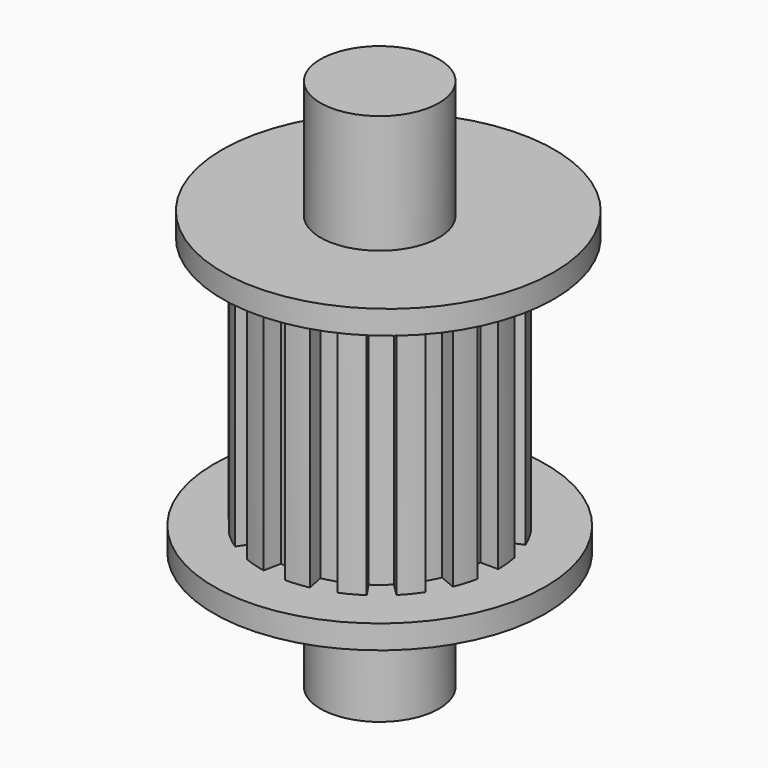
from build123d import *

# Parameters (mm, degrees)
F0_R          = 7
F1_DEPTH      = 1
F3_DEPTH      = 10.5
F4_R          = 7
F5_DEPTH      = 1
F6_R          = 2.5
F7_DEPTH      = 5
F7_DEPTH_BACK = 17.5


with BuildPart() as f1:
    # F0 (on Top) → F1 (new body)
    with BuildSketch(Plane.XY):
        Circle(F0_R)
    extrude(amount=F1_DEPTH)

    # F2 (on face) → F3 (join)
    with BuildSketch(Plane.XY.offset(1)):
        with BuildLine():
            ThreePointArc((0.829134, 4.168337), (0.416573, 4.229535), (0, 4.25))
            Line((0, 4.25), (0, 5))
            ThreePointArc((0, 5), (-0.490086, 4.975924), (-0.975452, 4.903926))
            Line((-0.975452, 4.903926), (-0.829134, 4.168337))
            ThreePointArc((-0.829134, 4.168337), (-1.23371, 4.066996), (-1.626405, 3.926488))
            Line((-1.626405, 3.926488), (-1.913417, 4.619398))
            ThreePointArc((-1.913417, 4.619398), (-2.356984, 4.409606), (-2.777851, 4.157348))
            Line((-2.777851, 4.157348), (-2.361173, 3.533746))
            ThreePointArc((-2.361173, 3.533746), (-2.696171, 3.285294), (-3.005204, 3.005204))
            Line((-3.005204, 3.005204), (-3.535534, 3.535534))
            ThreePointArc((-3.535534, 3.535534), (-3.865052, 3.171966), (-4.157348, 2.777851))
            Line((-4.157348, 2.777851), (-3.533746, 2.361173))
            ThreePointArc((-3.533746, 2.361173), (-3.748165, 2.003436), (-3.926488, 1.626405))
            Line((-3.926488, 1.626405), (-4.619398, 1.913417))
            ThreePointArc((-4.619398, 1.913417), (-4.784702, 1.451423), (-4.903926, 0.975452))
            Line((-4.903926, 0.975452), (-4.168337, 0.829134))
            ThreePointArc((-4.168337, 0.829134), (-4.229535, 0.416573), (-4.25, 0))
            Line((-4.25, 0), (-5, 0))
            ThreePointArc((-5, 0), (-4.975924, -0.490086), (-4.903926, -0.975452))
            Line((-4.903926, -0.975452), (-4.168337, -0.829134))
            ThreePointArc((-4.168337, -0.829134), (-4.066996, -1.23371), (-3.926488, -1.626405))
            Line((-3.926488, -1.626405), (-4.619398, -1.913417))
            ThreePointArc((-4.619398, -1.913417), (-4.409606, -2.356984), (-4.157348, -2.777851))
            Line((-4.157348, -2.777851), (-3.533746, -2.361173))
            ThreePointArc((-3.533746, -2.361173), (-3.285294, -2.696171), (-3.005204, -3.005204))
            Line((-3.005204, -3.005204), (-3.535534, -3.535534))
            ThreePointArc((-3.535534, -3.535534), (-3.171966, -3.865052), (-2.777851, -4.157348))
            Line((-2.777851, -4.157348), (-2.361173, -3.533746))
            ThreePointArc((-2.361173, -3.533746), (-2.003436, -3.748165), (-1.626405, -3.926488))
            Line((-1.626405, -3.926488), (-1.913417, -4.619398))
            ThreePointArc((-1.913417, -4.619398), (-1.451423, -4.784702), (-0.975452, -4.903926))
            Line((-0.975452, -4.903926), (-0.829134, -4.168337))
            ThreePointArc((-0.829134, -4.168337), (-0.416573, -4.229535), (0, -4.25))
            Line((0, -4.25), (0, -5))
            ThreePointArc((0, -5), (0.490086, -4.975924), (0.975452, -4.903926))
            Line((0.975452, -4.903926), (0.829134, -4.168337))
            ThreePointArc((0.829134, -4.168337), (1.23371, -4.066996), (1.626405, -3.926488))
            Line((1.626405, -3.926488), (1.913417, -4.619398))
            ThreePointArc((1.913417, -4.619398), (2.356984, -4.409606), (2.777851, -4.157348))
            Line((2.777851, -4.157348), (2.361173, -3.533746))
            ThreePointArc((2.361173, -3.533746), (2.696171, -3.285294), (3.005204, -3.005204))
            Line((3.005204, -3.005204), (3.535534, -3.535534))
            ThreePointArc((3.535534, -3.535534), (3.865052, -3.171966), (4.157348, -2.777851))
            Line((4.157348, -2.777851), (3.533746, -2.361173))
            ThreePointArc((3.533746, -2.361173), (3.748165, -2.003436), (3.926488, -1.626405))
            Line((3.926488, -1.626405), (4.619398, -1.913417))
            ThreePointArc((4.619398, -1.913417), (4.784702, -1.451423), (4.903926, -0.975452))
            Line((4.903926, -0.975452), (4.168337, -0.829134))
            ThreePointArc((4.168337, -0.829134), (4.229535, -0.416573), (4.25, 0))
            Line((4.25, 0), (5, 0))
            ThreePointArc((5, 0), (4.975924, 0.490086), (4.903926, 0.975452))
            Line((4.903926, 0.975452), (4.168337, 0.829134))
            ThreePointArc((4.168337, 0.829134), (4.066996, 1.23371), (3.926488, 1.626405))
            Line((3.926488, 1.626405), (4.619398, 1.913417))
            ThreePointArc((4.619398, 1.913417), (4.409606, 2.356984), (4.157348, 2.777851))
            Line((4.157348, 2.777851), (3.533746, 2.361173))
            ThreePointArc((3.533746, 2.361173), (3.285294, 2.696171), (3.005204, 3.005204))
            Line((3.005204, 3.005204), (3.535534, 3.535534))
            ThreePointArc((3.535534, 3.535534), (3.171966, 3.865052), (2.777851, 4.157348))
            Line((2.777851, 4.157348), (2.361173, 3.533746))
            ThreePointArc((2.361173, 3.533746), (2.003436, 3.748165), (1.626405, 3.926488))
            Line((1.626405, 3.926488), (1.913417, 4.619398))
            ThreePointArc((1.913417, 4.619398), (1.451423, 4.784702), (0.975452, 4.903926))
            Line((0.975452, 4.903926), (0.829134, 4.168337))
        make_face()
    extrude(amount=F3_DEPTH)

    # F4 (on face) → F5 (join)
    with BuildSketch(Plane.XY.offset(11.5)):
        with Locations((0, 0.452107)):
            Circle(F4_R)
    extrude(amount=F5_DEPTH)

    # F6 (on face) → F7 (join, two sides)
    with BuildSketch(Plane(origin=(0, 0, 0), x_dir=(1, 0, 0), z_dir=(0, 0, -1))) as f7_sk:
        Circle(F6_R)
    extrude(amount=F7_DEPTH)
    extrude(f7_sk.sketch, amount=-F7_DEPTH_BACK)


solid = f1.part
